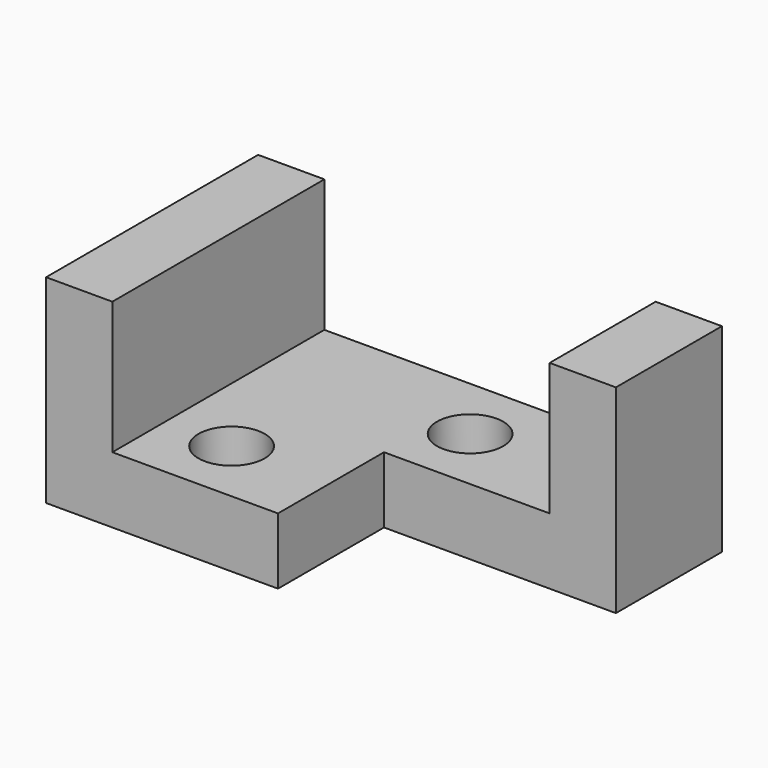
from build123d import *

# Parameters (mm, degrees)
F0_W     = 88.9
F0_H     = 38.1
F2_DEPTH = 50.8
F1_W     = 63.5
F1_H     = 25.4
F3_DEPTH = 50.801
F4_W     = 44.45
F4_H     = 25.4
F5_DEPTH = 38.101
F6_R     = 6.35
F7_DEPTH = 12.701


with BuildPart() as f2:
    # F0 (on Front) → F2 (new body)
    with BuildSketch(Plane.XZ):
        Rectangle(F0_W, F0_H)
    extrude(amount=F2_DEPTH)

    # F1 (on face) → F3 (cut, through all)
    with BuildSketch(Plane.XZ):
        with Locations((0, 6.35)):
            Rectangle(F1_W, F1_H)
    extrude(amount=F3_DEPTH, mode=Mode.SUBTRACT)

    # F4 (on face) → F5 (cut, through all)
    with BuildSketch(Plane.XY.offset(19.05)):
        with Locations((22.225, -38.1)):
            Rectangle(F4_W, F4_H)
        with Locations((22.225, -38.1)):
            Rectangle(F4_W, F4_H)
    extrude(amount=-F5_DEPTH, mode=Mode.SUBTRACT)

    # F6 (on face) → F7 (cut, through all)
    with BuildSketch(Plane.XY.offset(-6.35)):
        with Locations((-19.05, -38.1)):
            Circle(F6_R)
        with Locations((6.35, -12.7)):
            Circle(F6_R)
    extrude(amount=-F7_DEPTH, mode=Mode.SUBTRACT)


solid = f2.part
